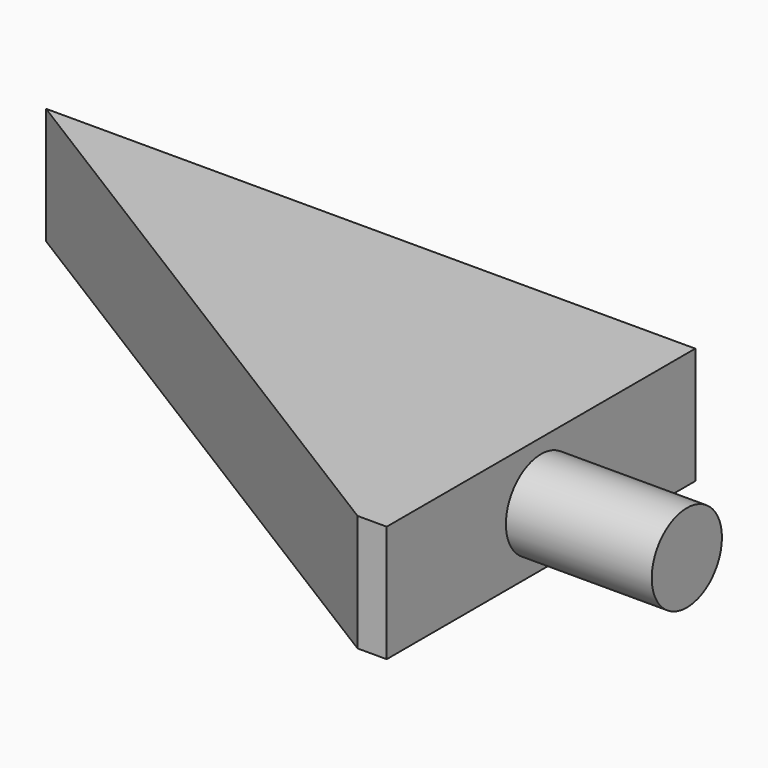
from build123d import *

# Parameters (mm, degrees)
F1_DEPTH = 25.4
F2_W     = 83.970894
F2_H     = 25.4
F3_DEPTH = 6.35
F4_R     = 9.551083
F5_DEPTH = 31.75


with BuildPart() as f1:
    # F0 (on Top) → F1 (new body)
    with BuildSketch(Plane.XY):
        Polygon((67.652024, 57.670575), (-67.335151, 57.670575), (67.652024, -26.300319), align=None)
    extrude(amount=F1_DEPTH)

    # F2 (on face) → F3 (join)
    with BuildSketch(Plane.YZ.offset(67.652024)):
        with Locations((15.685128, 12.7)):
            Rectangle(F2_W, F2_H)
    extrude(amount=F3_DEPTH)

    # F4 (on face) → F5 (join)
    with BuildSketch(Plane.YZ.offset(74.002024)):
        with Locations((15.685128, 12.7)):
            Circle(F4_R)
    extrude(amount=F5_DEPTH)


solid = f1.part
